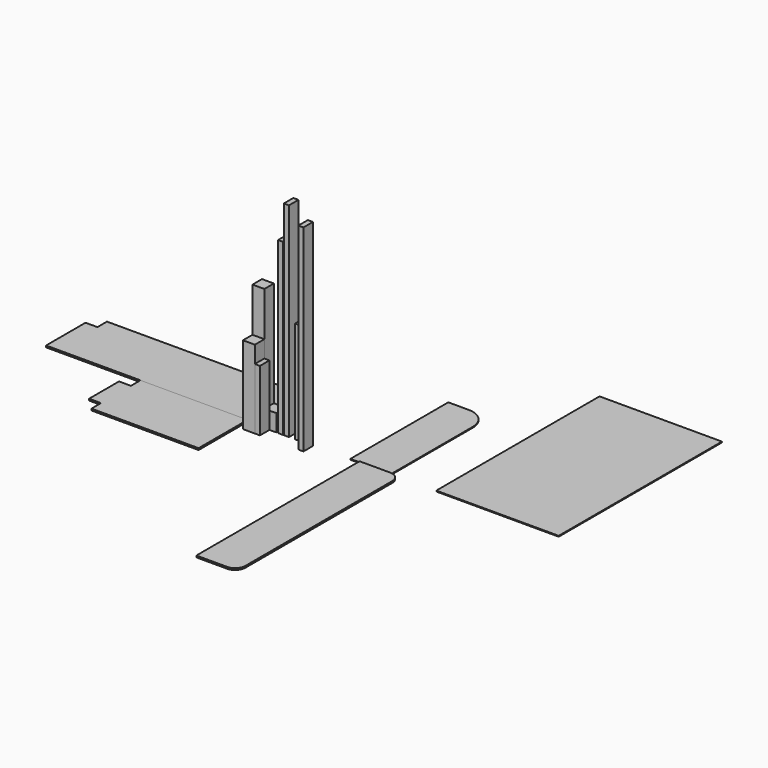
from build123d import *

# Parameters (mm, degrees)
F0_W      = 38.1
F0_H      = 88.9
F2_DEPTH  = 457.2
F1_W      = 88.9
F1_H      = 88.9
F3_DEPTH  = 914.4
F4_W      = 88.9
F4_H      = 88.9
F6_DEPTH  = 127
F5_W      = 88.9
F5_H      = 88.9
F7_DEPTH  = 584.2
F8_W      = 38.1
F8_H      = 88.9
F9_DEPTH  = 1270
F10_W     = 38.1
F10_H     = 88.9
F11_DEPTH = 1524
F12_W     = 38.1
F12_H     = 88.9
F13_DEPTH = 762
F15_DEPTH = 12.7
F17_DEPTH = 12.7
F19_DEPTH = 12.7
F21_DEPTH = 6.35
F22_W     = 914.4
F22_H     = 1524
F23_DEPTH = 6.35
F24_W     = 38.1
F24_H     = 88.9
F25_DEPTH = 1473.2


with BuildPart() as f2:
    # F0 (on Top) → F2 (new body)
    with BuildSketch(Plane.XY):
        with Locations((19.05, -44.45)):
            Rectangle(F0_W, F0_H)
    extrude(amount=F2_DEPTH)


with BuildPart() as f3:
    # F1 (on Top) → F3 (new body)
    with BuildSketch(Plane.XY):
        with Locations((-44.45, 44.45)):
            Rectangle(F1_W, F1_H)
    extrude(amount=F3_DEPTH)


with BuildPart() as f6:
    # F4 (on Top) → F6 (new body)
    with BuildSketch(Plane.XY):
        with Locations((44.45, 44.45)):
            Rectangle(F4_W, F4_H)
    extrude(amount=F6_DEPTH)


with BuildPart() as f7:
    # F5 (on Top) → F7 (new body)
    with BuildSketch(Plane.XY):
        with Locations((-44.45, -44.45)):
            Rectangle(F5_W, F5_H)
    extrude(amount=F7_DEPTH)


with BuildPart() as f9:
    # F8 (on Top) → F9 (new body)
    with BuildSketch(Plane.XY):
        with Locations((121.462798, 44.45)):
            Rectangle(F8_W, F8_H)
    extrude(amount=F9_DEPTH)


with BuildPart() as f11:
    # F10 (on Top) → F11 (new body)
    with BuildSketch(Plane.XY):
        with Locations((164.431525, 44.45)):
            Rectangle(F10_W, F10_H)
    extrude(amount=F11_DEPTH)


with BuildPart() as f13:
    # F12 (on Top) → F13 (new body)
    with BuildSketch(Plane.XY):
        with Locations((248.318435, 44.45)):
            Rectangle(F12_W, F12_H)
    extrude(amount=F13_DEPTH)


with BuildPart() as f15:
    # F14 (on Top) → F15 (new body)
    with BuildSketch(Plane.XY):
        Polygon((-1630.416789, 0), (-106.416789, 0), (-106.416789, 368.3), (-195.316789, 368.3), (-195.316789, 457.2), (-1541.516789, 457.2), (-1541.516789, 368.3), (-1630.416789, 368.3), align=None)
    extrude(amount=F15_DEPTH)


with BuildPart() as f17:
    # F16 (on Top) → F17 (new body)
    with BuildSketch(Plane.XY):
        Polygon((-125.555, -457.2), (-125.555, 0), (-925.655, 0), (-925.655, -88.9), (-1014.555, -88.9), (-1014.555, -368.3), (-925.655, -368.3), (-925.655, -457.2), align=None)
    extrude(amount=F17_DEPTH)


with BuildPart() as f19:
    # F18 (on Top) → F19 (new body)
    with BuildSketch(Plane.XY):
        with BuildLine():
            ThreePointArc((1016.134128, -76.2), (993.815665, -22.318463), (939.934128, 0))
            Line((939.934128, 0), (711.334128, 0))
            Line((711.334128, 0), (711.334128, -1524))
            Line((711.334128, -1524), (939.934128, -1524))
            ThreePointArc((939.934128, -1524), (993.815665, -1501.681537), (1016.134128, -1447.8))
            Line((1016.134128, -1447.8), (1016.134128, -76.2))
        make_face()
    extrude(amount=F19_DEPTH)


with BuildPart() as f21:
    # F20 (on Top) → F21 (new body)
    with BuildSketch(Plane.XY):
        with BuildLine():
            Line((642.439276, 914.4), (642.439276, 0))
            Line((642.439276, 0), (947.239276, 0))
            Line((947.239276, 0), (947.239276, 762))
            ThreePointArc((947.239276, 762), (902.602349, 869.763073), (794.839276, 914.4))
            Line((794.839276, 914.4), (642.439276, 914.4))
        make_face()
    extrude(amount=F21_DEPTH)


with BuildPart() as f23:
    # F22 (on Top) → F23 (new body)
    with BuildSketch(Plane.XY):
        with Locations((1741.271867, 762)):
            Rectangle(F22_W, F22_H)
    extrude(amount=F23_DEPTH)


with BuildPart() as f25:
    # F24 (on Top) → F25 (new body)
    with BuildSketch(Plane.XY):
        with Locations((343.815442, -44.45)):
            Rectangle(F24_W, F24_H)
    extrude(amount=F25_DEPTH)


solid = Compound([f2.part, f3.part, f6.part, f7.part, f9.part, f11.part, f13.part, f15.part, f17.part, f19.part, f21.part, f23.part, f25.part])
